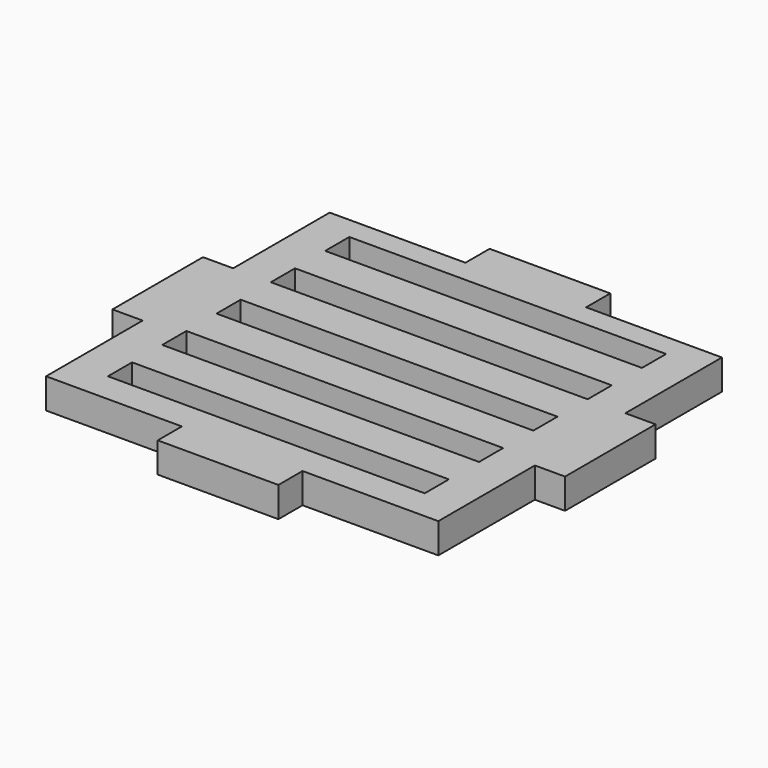
from build123d import *

# Parameters (mm, degrees)
F0_W     = 53.34
F0_H     = 5.08
F1_DEPTH = 5.08


with BuildPart() as f1:
    # F0 (on Top) → F1 (new body)
    with BuildSketch(Plane.XY):
        Polygon((48.26, 0), (27.94, 0), (27.94, -5.08), (5.08, -5.08), (5.08, -25.4), (0, -25.4), (0, -44.45), (5.08, -44.45), (5.08, -64.77), (27.94, -64.77), (27.94, -69.85), (48.26, -69.85), (48.26, -64.77), (71.12, -64.77), (71.12, -44.45), (76.2, -44.45), (76.2, -25.4), (71.12, -25.4), (71.12, -5.08), (48.26, -5.08), align=None)
        with Locations((38.1, -57.15)):
            Rectangle(F0_W, F0_H, mode=Mode.SUBTRACT)
        with Locations((38.1, -45.72)):
            Rectangle(F0_W, F0_H, mode=Mode.SUBTRACT)
        with Locations((38.1, -34.29)):
            Rectangle(F0_W, F0_H, mode=Mode.SUBTRACT)
        with Locations((38.1, -22.86)):
            Rectangle(F0_W, F0_H, mode=Mode.SUBTRACT)
        with Locations((38.1, -11.43)):
            Rectangle(F0_W, F0_H, mode=Mode.SUBTRACT)
    extrude(amount=F1_DEPTH)


solid = f1.part
